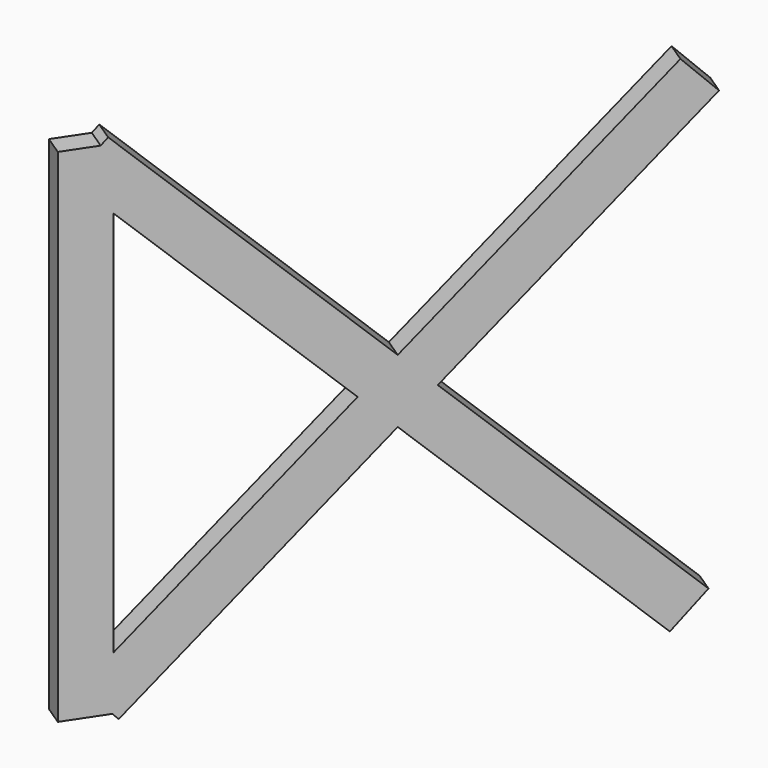
from build123d import *

# Parameters (mm, degrees)
BOX229_W                  = 0.5
BOX229_H                  = 1
BOX229_DEPTH              = 15
BOX229_ROLL_ANGLE         = 46
BOX230_W                  = 0.5
BOX230_H                  = 1
BOX230_DEPTH              = 15
BOX230_ROLL_ANGLE         = -46
BOX227_W                  = 0.5
BOX227_H                  = 1
BOX227_DEPTH              = 11
FUSION019_PLACEMENT_ANGLE = -33.6


with BuildPart() as cubo229:
    # Box229 → Box229 (new body)
    with BuildSketch(Plane.XY):
        with Locations((0.25, 0.5)):
            Rectangle(BOX229_W, BOX229_H)
    extrude(amount=BOX229_DEPTH)


with BuildPart() as cubo229_1:
    # Box229 roll: moved
    add(cubo229.part.rotate(Axis((0, 0, 0), (1, 0, 0)), BOX229_ROLL_ANGLE))


with BuildPart() as cubo229_2:
    # Box229 placement: moved
    add(cubo229_1.part.moved(Location((0, 11, 0.5))))


with BuildPart() as cubo230:
    # Box230 → Box230 (new body)
    with BuildSketch(Plane.XY):
        with Locations((0.25, 0.5)):
            Rectangle(BOX230_W, BOX230_H)
    extrude(amount=BOX230_DEPTH)


with BuildPart() as cubo230_1:
    # Box230 roll: moved
    add(cubo230.part.rotate(Axis((0, 0, 0), (1, 0, 0)), BOX230_ROLL_ANGLE))


with BuildPart() as cubo230_2:
    # Box230 placement: moved
    add(cubo230_1.part.moved(Location((0, 0.4, 1.1))))


with BuildPart() as fusion019:
    # Box227 → Box227 (new body)
    with BuildSketch(Plane.XY.offset(0.5)):
        with Locations((0.25, 0.5)):
            Rectangle(BOX227_W, BOX227_H)
    extrude(amount=BOX227_DEPTH)

    # Fusion019: union Cubo229, Cubo230
    add(cubo229_2.part)
    add(cubo230_2.part)


with BuildPart() as fusion019_1:
    # Fusion019 placement: moved
    add(fusion019.part.moved(Location((-198.7, 123.7, 0))).rotate(Axis((-198.7, 123.7, 0), (0, 0, 1)), FUSION019_PLACEMENT_ANGLE))


solid = fusion019_1.part
